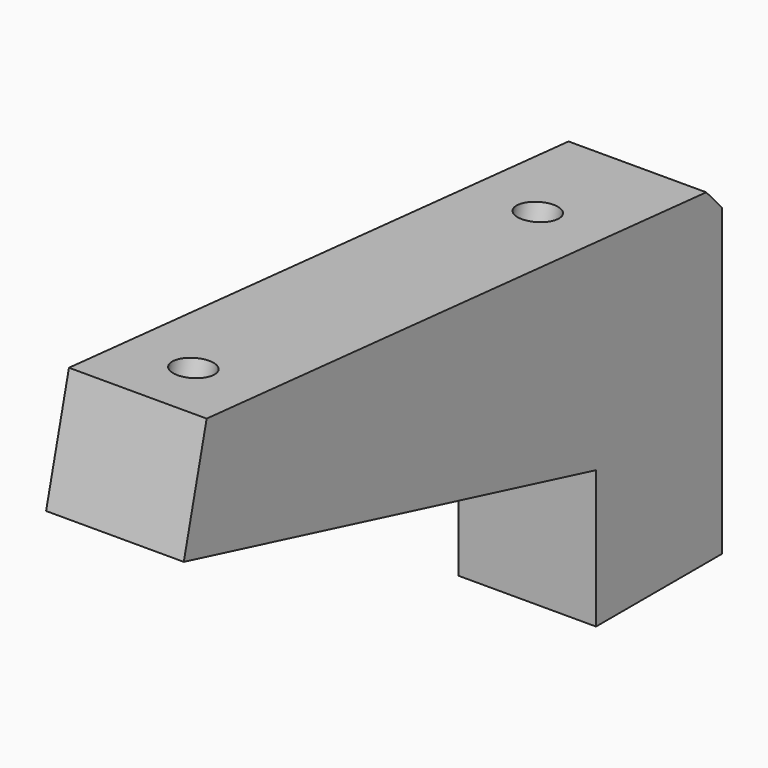
from build123d import *

# Parameters (mm, degrees)
F1_DEPTH = 7
F3_D     = 2
F4_SIZE  = 1


with BuildPart() as f1:
    # F0 (on Right) → F1 (new body)
    with BuildSketch(Plane.YZ):
        Polygon((-26.19513, 6.543331), (0, 0), (0, -7), (8, -7), (8, 9.5), (-24.741056, 12.364471), align=None)
    extrude(amount=F1_DEPTH)

    # F3 (through all)
    with Locations(Plane(origin=(0, 0, 0), x_dir=(1, 0, 0), z_dir=(0, -0.242346, -0.97019))):
        with Locations((3.5, 1.803581), (3.5, 23.5)):
            Hole(F3_D / 2)

    # F4
    f4_edges = [f1.edges().sort_by_distance(p)[0] for p in [
        (3.5, 8, 9.5),
    ]]
    chamfer(f4_edges, length=F4_SIZE)


solid = f1.part
